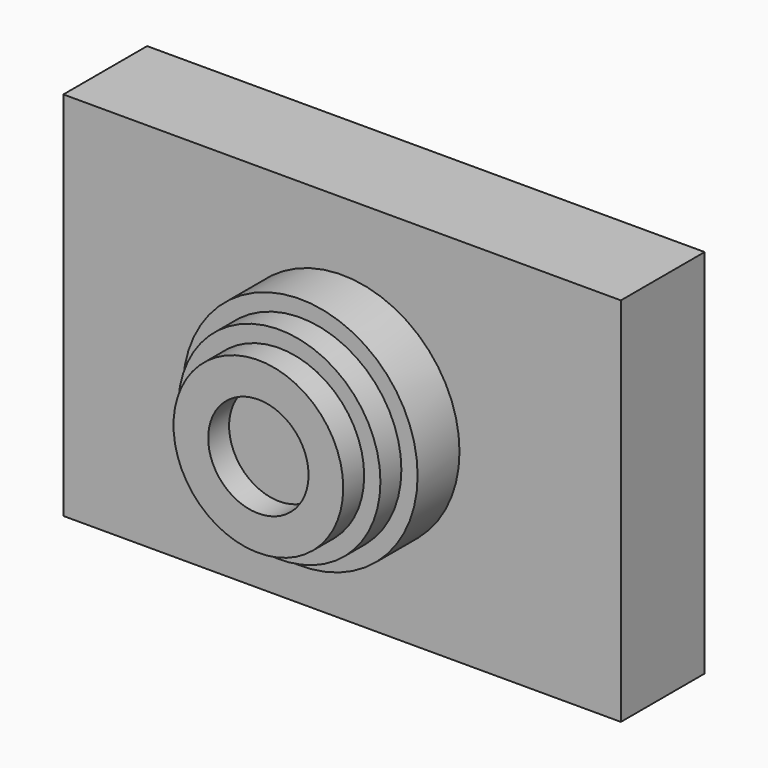
from build123d import *

# Parameters (mm, degrees)
F0_W      = 135.262012
F0_H      = 90.036332
F1_DEPTH  = 25.4
F2_R      = 20.589532
F4_DEPTH  = 25.4
F3_R      = 10.44105
F5_DEPTH  = 38.1
F7_R      = 12.176484
F8_DEPTH  = 25.4
F9_R      = 24.533487
F10_DEPTH = 19.05
F11_R     = 28.476811
F12_DEPTH = 12.7


with BuildPart() as f1:
    # F0 (on Front) → F1 (new body)
    with BuildSketch(Plane.XZ):
        Rectangle(F0_W, F0_H)
    extrude(amount=F1_DEPTH)

    # F2 (on face) → F4 (join)
    with BuildSketch(Plane.XZ.offset(25.4)):
        Circle(F2_R)
    extrude(amount=F4_DEPTH)

    # F3 (on Front) → F5 (join)
    with BuildSketch(Plane.XZ):
        Circle(F3_R)
    extrude(amount=F5_DEPTH)

    # F7 (on face) → F8 (cut)
    with BuildSketch(Plane.XZ.offset(50.8)):
        Circle(F7_R)
    extrude(amount=-F8_DEPTH, mode=Mode.SUBTRACT)

    # F9 (on face) → F10 (join)
    with BuildSketch(Plane.XZ.offset(25.4)):
        Circle(F9_R)
    extrude(amount=F10_DEPTH)

    # F11 (on face) → F12 (join)
    with BuildSketch(Plane.XZ.offset(25.4)):
        Circle(F11_R)
    extrude(amount=F12_DEPTH)


solid = f1.part
